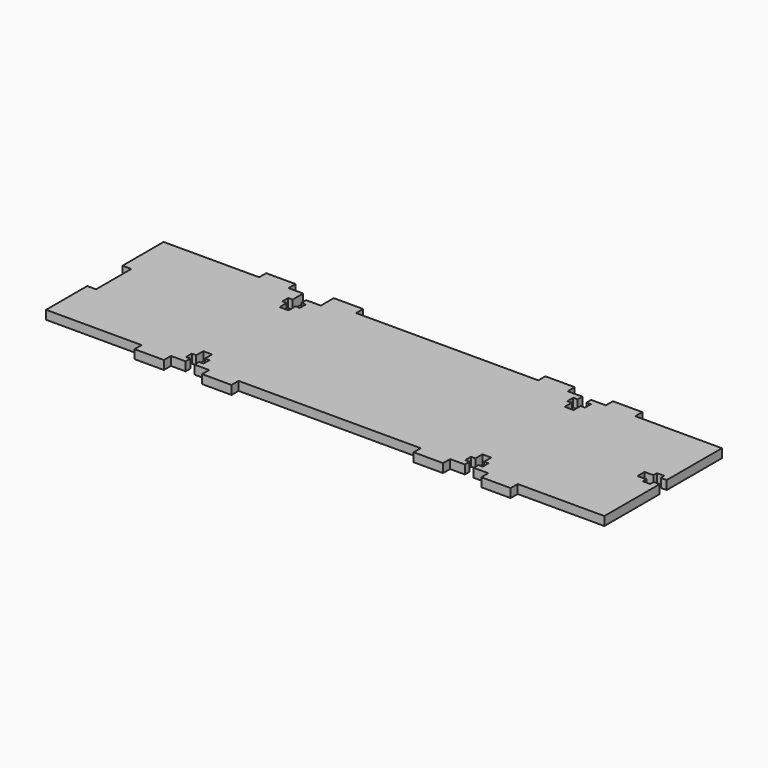
from build123d import *

# Parameters (mm, degrees)
F1_DEPTH = 3


with BuildPart() as f1:
    # F0 (on Top) → F1 (new body)
    with BuildSketch(Plane.XY):
        Polygon((22.039781, -43.04286), (22.039781, -19.54286), (-7.460219, -19.54286), (-7.460219, -16.54286), (-17.460219, -16.54286), (-17.460219, -19.54286), (-22.460219, -19.54286), (-22.460219, -21.54286), (-20.960219, -21.54286), (-20.960219, -24.04286), (-22.460219, -24.04286), (-22.460219, -27.04286), (-25.460219, -27.04286), (-25.460219, -24.04286), (-26.960219, -24.04286), (-26.960219, -21.54286), (-25.460219, -21.54286), (-25.460219, -19.54286), (-30.460219, -19.54286), (-30.460219, -16.54286), (-40.460219, -16.54286), (-40.460219, -19.54286), (-102.460219, -19.54286), (-102.460219, -16.54286), (-112.460219, -16.54286), (-112.460219, -22.04286), (-117.460219, -22.04286), (-117.460219, -24.04286), (-115.960219, -24.04286), (-115.960219, -26.54286), (-117.460219, -26.54286), (-117.460219, -29.54286), (-120.460219, -29.54286), (-120.460219, -26.54286), (-121.960219, -26.54286), (-121.960219, -24.04286), (-120.460219, -24.04286), (-120.460219, -19.54286), (-125.460219, -19.54286), (-125.460219, -16.54286), (-135.460219, -16.54286), (-135.460219, -19.54286), (-167.960219, -19.54286), (-167.960219, -37.04286), (-164.960219, -37.04286), (-164.960219, -52.04286), (-167.960219, -52.04286), (-167.960219, -69.54286), (-135.460219, -69.54286), (-135.460219, -72.54286), (-125.460219, -72.54286), (-125.460219, -69.54286), (-120.460219, -69.54286), (-120.460219, -67.54286), (-121.960219, -67.54286), (-121.960219, -65.04286), (-120.460219, -65.04286), (-120.460219, -62.04286), (-117.460219, -62.04286), (-117.460219, -65.04286), (-115.960219, -65.04286), (-115.960219, -67.54286), (-117.460219, -67.54286), (-117.460219, -69.54286), (-112.460219, -69.54286), (-112.460219, -72.54286), (-102.460219, -72.54286), (-102.460219, -69.54286), (-40.460219, -69.54286), (-40.460219, -72.54286), (-30.460219, -72.54286), (-30.460219, -69.54286), (-25.460219, -69.54286), (-25.460219, -67.54286), (-26.960219, -67.54286), (-26.960219, -65.04286), (-25.460219, -65.04286), (-25.460219, -62.04286), (-22.460219, -62.04286), (-22.460219, -65.04286), (-20.960219, -65.04286), (-20.960219, -67.54286), (-22.460219, -67.54286), (-22.460219, -69.54286), (-17.460219, -69.54286), (-17.460219, -72.54286), (-7.460219, -72.54286), (-7.460219, -69.54286), (22.039781, -69.54286), (22.039781, -46.04286), (20.039781, -46.04286), (20.039781, -47.54286), (17.539781, -47.54286), (17.539781, -46.04286), (14.539781, -46.04286), (14.539781, -43.04286), (17.539781, -43.04286), (17.539781, -41.54286), (20.039781, -41.54286), (20.039781, -43.04286), align=None)
    extrude(amount=F1_DEPTH)


solid = f1.part
